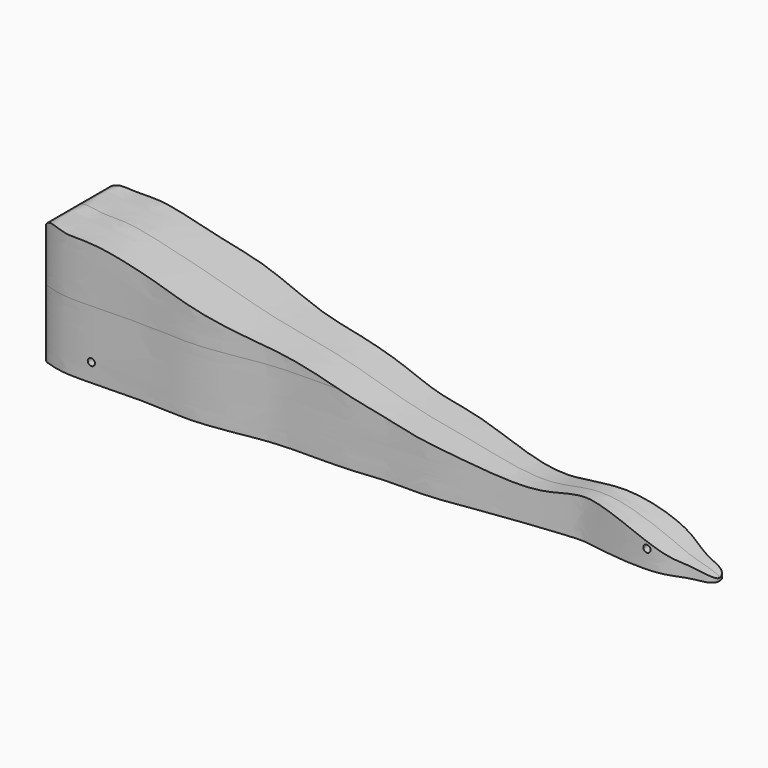
from build123d import *

# Parameters (mm, degrees)
F4_DEPTH = 22.225
F5_DEPTH = 30.48
F6_START = -92.075
F2_R     = 9.525
F6_DEPTH = 60.325
F3_R     = 1.5875
F7_DEPTH = 25.4


with BuildPart() as f4:
    # F0 (on Front) → F4 (new body, symmetric)
    with BuildSketch(Plane.XZ):
        with BuildLine():
            add(Edge.make_bspline(
                [(-146.05, -24.0236744285), (-146.1011979887, -18.0809448254), (-145.8532530048, -0.5269788368), (-146.5109172247, 22.2578630821), (-140.2367837727, 26.7140773973), (-132.7654142002, 24.3900757954), (-120.5103934733, 25.5488974615), (-99.7892825846, 20.6802076471), (-77.849223983, 15.2264252131), (-51.4382459811, 7.5015797393), (-24.0088363918, 3.9727807265), (6.898663843, -6.4456586361), (30.1410127364, -10.0623141132), (45.1119777555, -13.3901351555), (71.6797877142, -18.0988268272), (94.0736765259, -9.030207789), (125.1166261406, -20.834200259), (132.5442876494, -24.9344273059), (147.7150660393, -27.8900036711), (145.5561494515, -31.4895403858), (144.2525844553, -32.1044773594), (112.7811148564, -31.6190690565), (91.8660535724, -31.7823213202), (67.9659586808, -31.7417233295), (46.58110352, -31.7525216233), (19.2032054968, -31.7492766279), (-7.028164678, -31.750279097), (-28.2761337981, -31.7495232169), (-58.6352378089, -31.751999342), (-90.862315895, -31.7432146141), (-108.8149001323, -31.770764209), (-136.5053425149, -31.6745928115), (-145.8658089036, -31.8827529371), (-146.0229212512, -27.1667995012), (-146.05, -24.0236744285)],
                knots=[0, 0, 0, 0, 0.0354690992, 0.0696119774, 0.0866927348, 0.1058270642, 0.1310324504, 0.1642379805, 0.199081056, 0.236736407, 0.2751339669, 0.3166566733, 0.3512922449, 0.3797442351, 0.416248131, 0.452282727, 0.4921658616, 0.5156860288, 0.5413052096, 0.5517901559, 0.5597683114, 0.5987825173, 0.6346166391, 0.6690162623, 0.7026796564, 0.7406353024, 0.7776067528, 0.8108291407, 0.8510188464, 0.8917607165, 0.9236165457, 0.961593291, 0.9812403016, 1, 1, 1, 1], degree=3))
        make_face()
    extrude(amount=F4_DEPTH, both=True)

    # F1 (on Top) → F5 (intersect, symmetric)
    with BuildSketch(Plane.XY):
        with BuildLine():
            add(Edge.make_bspline(
                [(-146.05, 0), (-146.05, 6.1070954064), (-145.8358875005, 16.3990497439), (-141.0385662982, 18.4122399442), (-132.4446950017, 20.6423597496), (-116.6935957196, 20.1058310869), (-93.529573666, 19.3955534695), (-74.7744190366, 21.4379689299), (-51.9086035938, 17.3382728016), (-37.1498360036, 15.0207901125), (-9.7060128403, 15.9345178592), (6.7707424913, 13.060640764), (25.2696837067, 14.4816839796), (52.2613729685, 9.5409995491), (76.0202656034, 7.2707065779), (88.7926025284, 5.6275019573), (99.0582923721, 7.8065380268), (125.8577012641, 10.8203874765), (136.4246010016, 3.9732763444), (146.050108976, 3.8510310354), (146.05, 0)],
                knots=[0, 0, 0, 0, 0.054602141, 0.0821763553, 0.1215062569, 0.176266676, 0.2421810139, 0.3027167664, 0.3670702024, 0.4214295819, 0.4921562975, 0.548502874, 0.6063337588, 0.6787947095, 0.7462627575, 0.7934169417, 0.8382539198, 0.9077918078, 0.9583650307, 1, 1, 1, 1], degree=3))
            add(Edge.make_bspline(
                [(-146.05, 0), (-146.05, -6.1070954064), (-145.8358875005, -16.3990497439), (-141.0385662982, -18.4122399442), (-132.4446950017, -20.6423597496), (-116.6935957196, -20.1058310869), (-93.529573666, -19.3955534695), (-74.7744190366, -21.4379689299), (-51.9086035938, -17.3382728016), (-37.1498360036, -15.0207901125), (-9.7060128403, -15.9345178592), (6.7707424913, -13.060640764), (25.2696837067, -14.4816839796), (52.2613729685, -9.5409995491), (76.0202656034, -7.2707065779), (88.7926025284, -5.6275019573), (99.0582923721, -7.8065380268), (125.8577012641, -10.8203874765), (136.4246010016, -3.9732763444), (146.050108976, -3.8510310354), (146.05, 0)],
                knots=[0, 0, 0, 0, 0.054602141, 0.0821763553, 0.1215062569, 0.176266676, 0.2421810139, 0.3027167664, 0.3670702024, 0.4214295819, 0.4921562975, 0.548502874, 0.6063337588, 0.6787947095, 0.7462627575, 0.7934169417, 0.8382539198, 0.9077918078, 0.9583650307, 1, 1, 1, 1], degree=3))
        make_face()
    extrude(amount=F5_DEPTH, both=True, mode=Mode.INTERSECT)

    # F2 (on Right) → F6 (cut)
    with BuildSketch(Plane.YZ.offset(F6_START)):
        Circle(F2_R)
    extrude(amount=-F6_DEPTH, mode=Mode.SUBTRACT)

    # F3 (on Front) → F7 (cut, symmetric)
    with BuildSketch(Plane.XZ):
        with Locations((-120.65, -22.225)):
            Circle(F3_R)
        with Locations((120.65, -22.225)):
            Circle(F3_R)
    extrude(amount=F7_DEPTH, both=True, mode=Mode.SUBTRACT)


solid = f4.part
